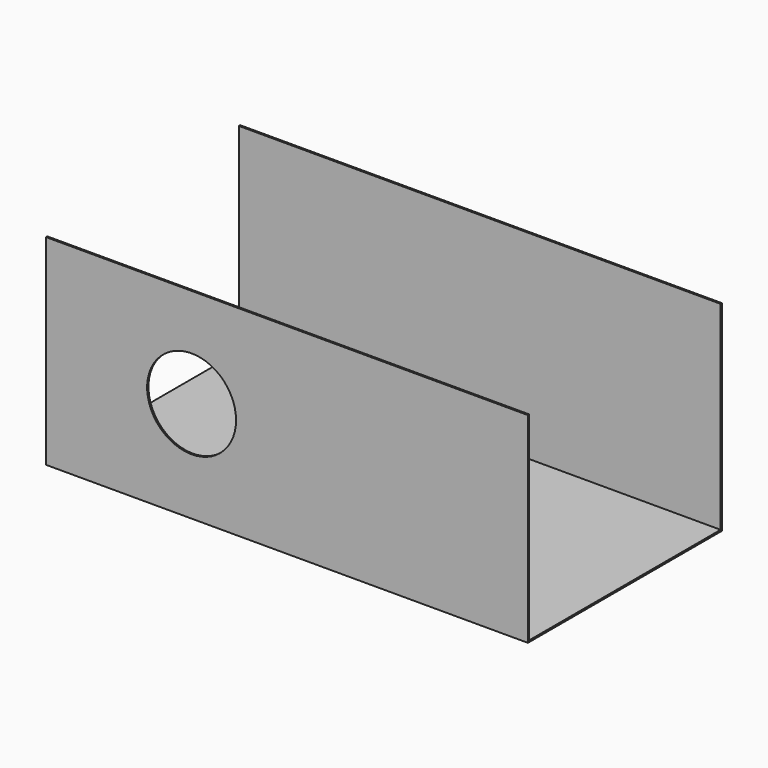
from build123d import *

# Parameters (mm, degrees)
F0_W     = 1192
F0_H     = 496
F0_R     = 110
F1_DEPTH = 4
F2_W     = 596
F2_H     = 4
F2_W_2   = 4
F2_H_2   = 492
F3_DEPTH = 1192


with BuildPart() as f1:
    # F0 (on Front) → F1 (new body)
    with BuildSketch(Plane.XZ):
        with Locations((596, 248)):
            Rectangle(F0_W, F0_H)
        with Locations((360, 250)):
            Circle(F0_R, mode=Mode.SUBTRACT)
    extrude(amount=F1_DEPTH)

    # F2 (on Right) → F3 (join)
    with BuildSketch(Plane.YZ):
        with Locations((294, 2)):
            Rectangle(F2_W, F2_H)
        with Locations((594, 250)):
            Rectangle(F2_W_2, F2_H_2)
        with Locations((594, 2)):
            Rectangle(F2_W_2, F2_H)
    extrude(amount=F3_DEPTH)


solid = f1.part
